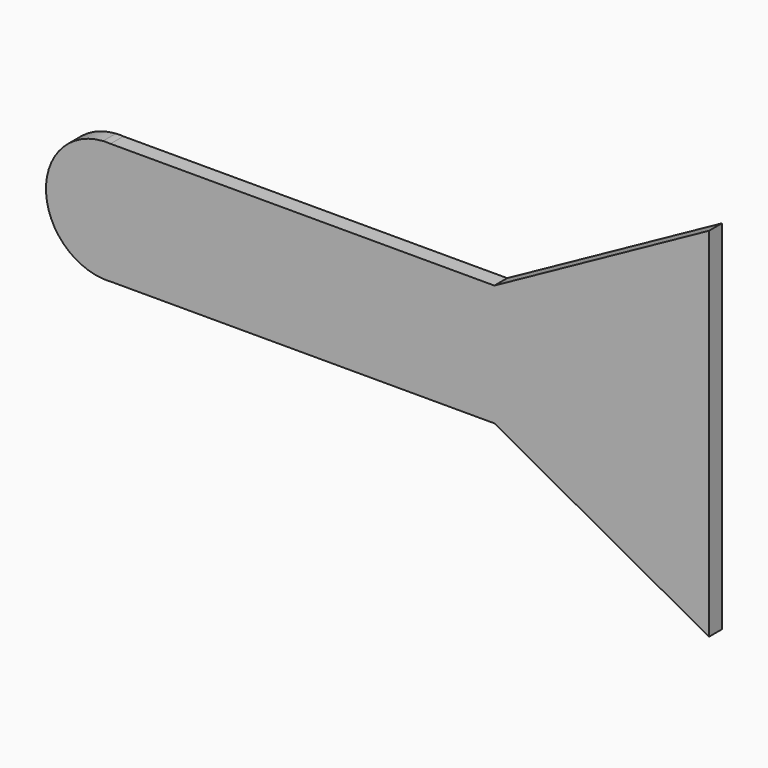
from build123d import *

# Parameters (mm, degrees)
F1_DEPTH = 6.35


with BuildPart() as f1:
    # F0 (on Front) → F1 (new body)
    with BuildSketch(Plane.XZ):
        with BuildLine():
            Line((-118.913364, 29.823589), (-115.967032, 29.823589))
            ThreePointArc((-115.967032, 29.823589), (-117.440198, 29.868968), (-118.913364, 29.823589))
        make_face()
        with BuildLine():
            Line((35.274541, 29.823589), (-115.967032, 29.823589))
            Line((-115.967032, 29.823589), (-118.913364, 29.823589))
            ThreePointArc((-118.913364, 29.823589), (-141.375006, 5.93416), (-118.913364, -17.955268))
            Line((-118.913364, -17.955268), (-115.967032, -17.955268))
            Line((-115.967032, -17.955268), (35.274541, -17.955268))
            Line((35.274541, -17.955268), (119.84679, -64.470268))
            Line((119.84679, -64.470268), (119.84679, 76.338588))
            Line((119.84679, 76.338588), (35.274541, 29.823589))
        make_face()
        with BuildLine():
            Line((-115.967032, -17.955268), (-118.913364, -17.955268))
            ThreePointArc((-118.913364, -17.955268), (-117.440198, -18.000648), (-115.967032, -17.955268))
        make_face()
    extrude(amount=F1_DEPTH)


solid = f1.part
